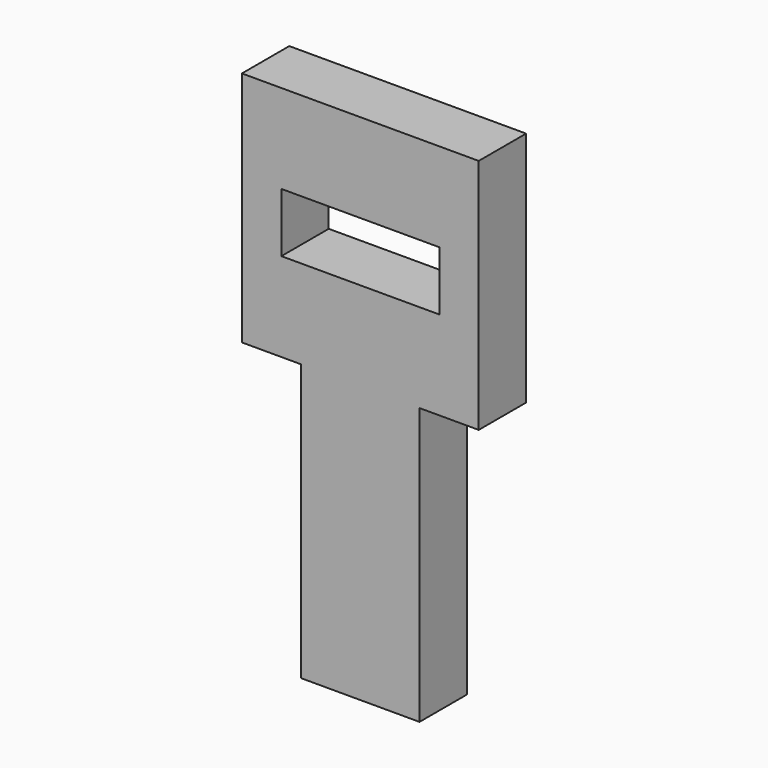
from build123d import *

# Parameters (mm, degrees)
F0_W     = 38.1
F0_H     = 28.575
F0_H_2   = 88.9
F1_DEPTH = 19.05


with BuildPart() as f1:
    # F0 (on Front) → F1 (new body)
    with BuildSketch(Plane.XZ):
        Polygon((-201.5440666556, -46.0437171084), (-201.5440666556, -17.4687171084), (-207.8940666556, -17.4687171084), (-207.8940666556, 1.5812828916), (-157.0940666556, 1.5812828916), (-157.0940666556, -17.4687171084), (-163.4440666556, -17.4687171084), (-163.4440666556, -46.0437171084), (-144.3940666556, -46.0437171084), (-144.3940666556, 30.1562828916), (-220.5940666556, 30.1562828916), (-220.5940666556, -46.0437171084), align=None)
        with Locations((-182.4940666556, -31.7562171084)):
            Rectangle(F0_W, F0_H)
        with Locations((-182.4940666556, -90.4937171084)):
            Rectangle(F0_W, F0_H_2)
    extrude(amount=F1_DEPTH)


solid = f1.part
